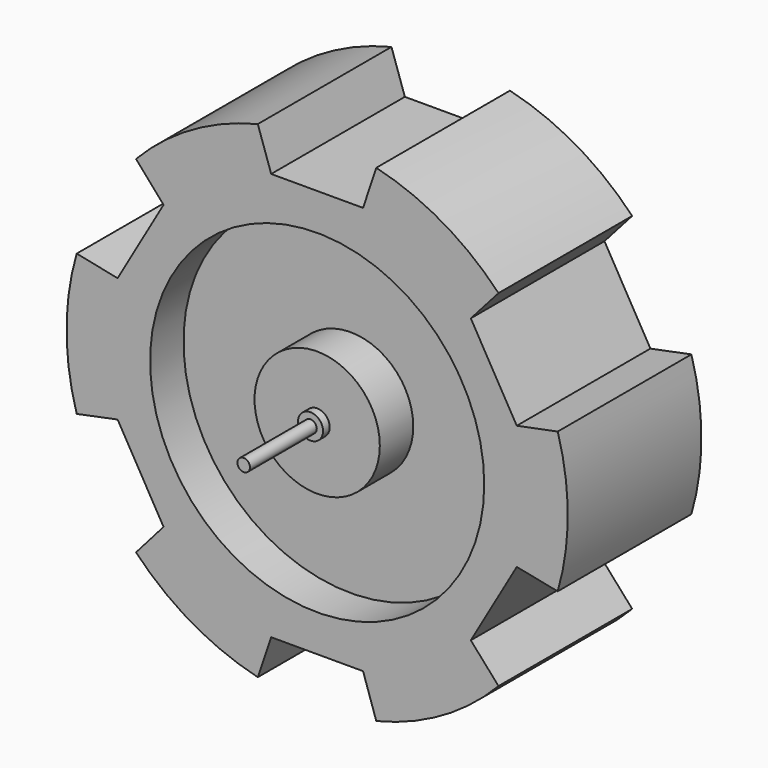
from build123d import *

# Parameters (mm, degrees)
F0_R      = 76.2
F0_R_2    = 50.8
F1_DEPTH  = 25.4
F0_R_3    = 19.05
F2_DEPTH  = 25.4
F3_DEPTH  = 25.4
F4_DEPTH  = 25.4
F5_DEPTH  = 12.7
F6_DEPTH  = 12.7
F8_DEPTH  = 50.801
F10_DEPTH = 50.801
F11_R     = 3.81
F12_DEPTH = 2.54
F13_R     = 1.905
F14_DEPTH = 25.4


with BuildPart() as f1:
    # F0 (on Front) → F1 (new body)
    with BuildSketch(Plane.XZ):
        Circle(F0_R)
        Circle(F0_R_2, mode=Mode.SUBTRACT)
    extrude(amount=F1_DEPTH)

    # F0 (on Front) → F4 (join)
    with BuildSketch(Plane.XZ):
        Circle(F0_R)
        Circle(F0_R_2, mode=Mode.SUBTRACT)
    extrude(amount=-F4_DEPTH)

    # F7 (on face) → F8 (cut, through all)
    with BuildSketch(Plane.XZ.offset(25.4)):
        with BuildLine():
            ThreePointArc((17.9730040468, 74.0500582412), (-0.0404237291, 76.1999892777), (-18.0515603106, 74.0309473825))
            Line((-18.0515603106, 74.0309473825), (-13.9808183694, 62.0010238562))
            Line((-13.9808183694, 62.0010238562), (13.9591816306, 62.0010238562))
            Line((13.9591816306, 62.0010238562), (17.9730040468, 74.0500582412))
        make_face()
        with BuildLine():
            Line((-60.6740525355, -18.91150602), (-73.1157336121, -21.4599510337))
            ThreePointArc((-73.1157336121, -21.4599510337), (-65.970914618, -38.1350026152), (-55.0869009442, -52.6485834982))
            Line((-55.0869009442, -52.6485834982), (-46.7040525355, -43.1082558017))
            Line((-46.7040525355, -43.1082558017), (-60.6740525355, -18.91150602))
        make_face()
        with BuildLine():
            ThreePointArc((55.1427295652, -52.5901072075), (66.0113383471, -38.0649866625), (73.1384612548, -21.3823638844))
            Line((73.1384612548, -21.3823638844), (60.6848709048, -18.8927680545))
            Line((60.6848709048, -18.8927680545), (46.7148709048, -43.0895178363))
            Line((46.7148709048, -43.0895178363), (55.1427295652, -52.5901072075))
        make_face()
    extrude(amount=-F8_DEPTH, mode=Mode.SUBTRACT)

    # F9 (on face) → F10 (cut, through all)
    with BuildSketch(Plane.XZ.offset(25.4)):
        with BuildLine():
            ThreePointArc((-55.0869009442, 52.6485834982), (-65.970914618, 38.1350026152), (-73.1157336121, 21.4599510337))
            Line((-73.1157336121, 21.4599510337), (-60.6740525355, 18.91150602))
            Line((-60.6740525355, 18.91150602), (-46.7040525355, 43.1082558017))
            Line((-46.7040525355, 43.1082558017), (-55.0869009442, 52.6485834982))
        make_face()
        with BuildLine():
            Line((60.6848709048, 18.8927680545), (73.1384612548, 21.3823638844))
            ThreePointArc((73.1384612548, 21.3823638844), (66.0113383471, 38.0649866625), (55.1427295652, 52.5901072075))
            Line((55.1427295652, 52.5901072075), (46.7148709048, 43.0895178363))
            Line((46.7148709048, 43.0895178363), (60.6848709048, 18.8927680545))
        make_face()
        with BuildLine():
            Line((-13.9808183694, -62.0010238562), (-18.0515603106, -74.0309473825))
            ThreePointArc((-18.0515603106, -74.0309473825), (-0.0404237291, -76.1999892777), (17.9730040468, -74.0500582412))
            Line((17.9730040468, -74.0500582412), (13.9591816306, -62.0010238562))
            Line((13.9591816306, -62.0010238562), (-13.9808183694, -62.0010238562))
        make_face()
    extrude(amount=-F10_DEPTH, mode=Mode.SUBTRACT)


with BuildPart() as f2:
    # F0 (on Front) → F2 (new body)
    with BuildSketch(Plane.XZ):
        Circle(F0_R_3)
    extrude(amount=F2_DEPTH)

    # F0 (on Front) → F3 (join)
    with BuildSketch(Plane.XZ):
        Circle(F0_R_3)
    extrude(amount=-F3_DEPTH)

    # F11 (on face) → F12 (join)
    with BuildSketch(Plane.XZ.offset(25.4)):
        Circle(F11_R)
    extrude(amount=F12_DEPTH)

    # F13 (on face) → F14 (join)
    with BuildSketch(Plane.XZ.offset(27.94)):
        Circle(F13_R)
    extrude(amount=F14_DEPTH)


with BuildPart() as f5:
    # F0 (on Front) → F5 (new body)
    with BuildSketch(Plane.XZ):
        Circle(F0_R_2)
        Circle(F0_R_3, mode=Mode.SUBTRACT)
    extrude(amount=F5_DEPTH)


with BuildPart() as f6:
    # F0 (on Front) → F6 (new body)
    with BuildSketch(Plane.XZ):
        Circle(F0_R_2)
        Circle(F0_R_3, mode=Mode.SUBTRACT)
    extrude(amount=-F6_DEPTH)


solid = Compound([f1.part, f2.part, f5.part, f6.part])
